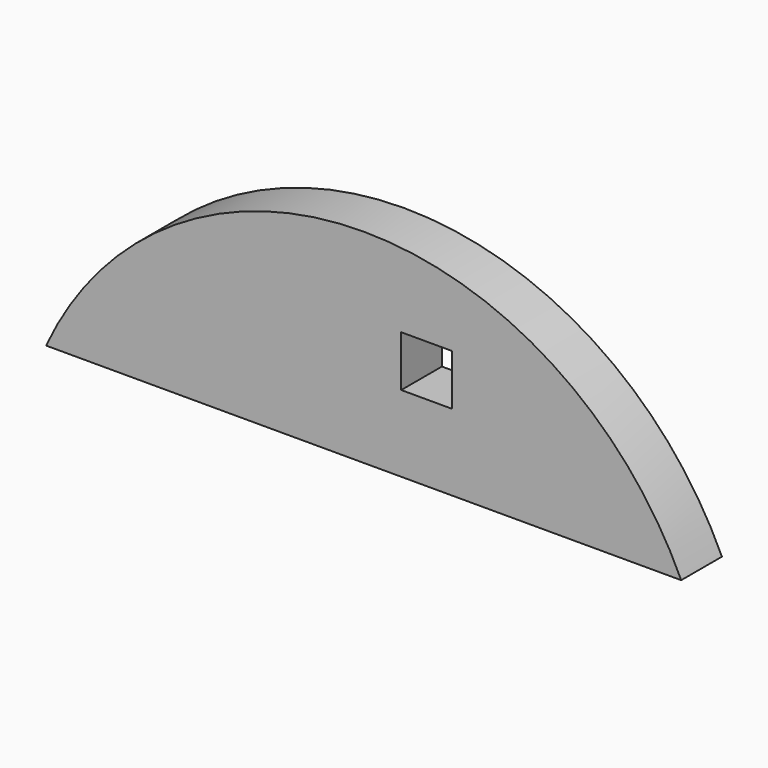
from build123d import *

# Parameters (mm, degrees)
F1_DEPTH = 10
F2_W     = 10
F2_H     = 10
F3_DEPTH = 10.001


with BuildPart() as f1:
    # F0 (on Front) → F1 (new body)
    with BuildSketch(Plane.XZ):
        with BuildLine():
            Line((-62.380915, 28.640187), (62.380915, 28.640187))
            ThreePointArc((62.380915, 28.640187), (0, 68.641379), (-62.380915, 28.640187))
        make_face()
    extrude(amount=F1_DEPTH)

    # F2 (on face) → F3 (cut, through all)
    with BuildSketch(Plane.XZ.offset(10)):
        with Locations((12.380915, 48.640187)):
            Rectangle(F2_W, F2_H)
    extrude(amount=-F3_DEPTH, mode=Mode.SUBTRACT)


solid = f1.part
